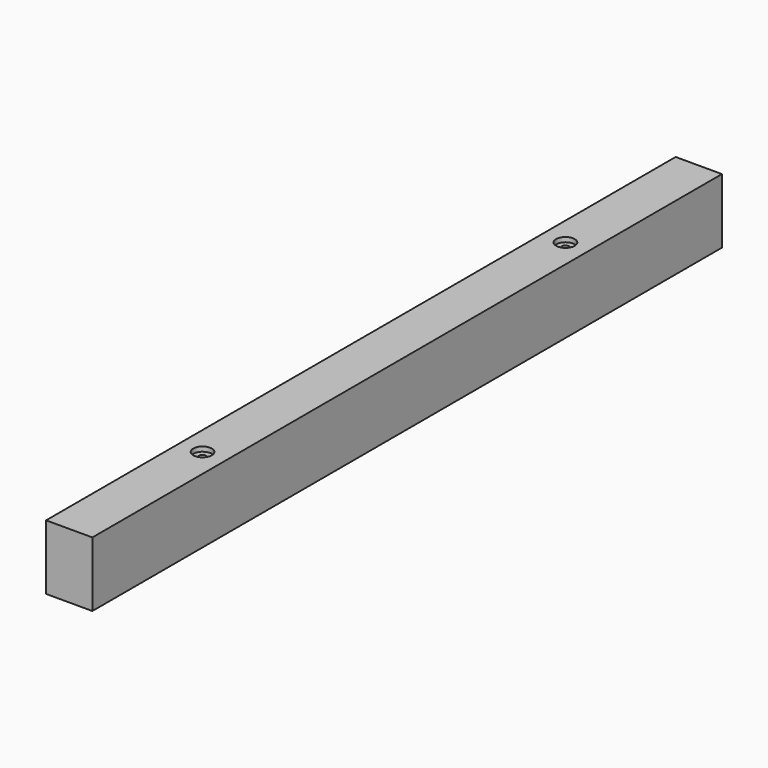
from build123d import *

# Parameters (mm, degrees)
F0_W           = 50
F0_H           = 70
F3_DEPTH       = 425
F3_DEPTH_BACK  = 425
F2_D           = 8.1
F2_CBORE_D     = 20
F2_CBORE_DEPTH = 5


with BuildPart() as f3:
    # F0 (on Front) → F3 (new body, two sides)
    with BuildSketch(Plane.XZ) as f3_sk:
        Rectangle(F0_W, F0_H)
    extrude(amount=F3_DEPTH)
    extrude(f3_sk.sketch, amount=-F3_DEPTH_BACK)

    # F2 (through all)
    with Locations(Plane.XY.offset(35)):
        with Locations((0, -245), (0, 245)):
            CounterBoreHole(F2_D / 2, F2_CBORE_D / 2, F2_CBORE_DEPTH)


solid = f3.part
